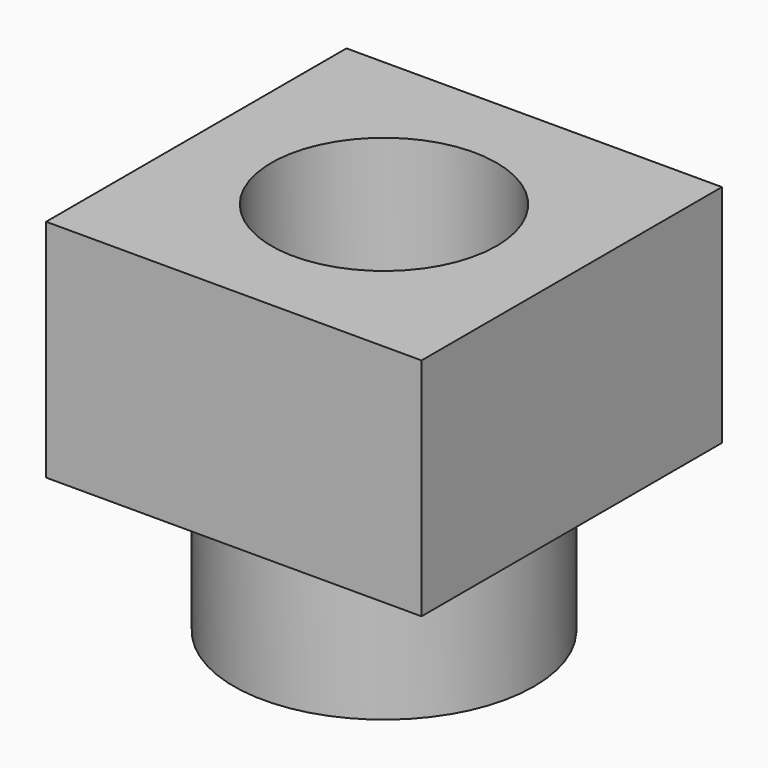
from build123d import *

# Parameters (mm, degrees)
F0_W     = 127
F0_H     = 127
F1_DEPTH = 38.1
F2_R     = 50.8
F3_DEPTH = 50.8
F4_R     = 38.1
F5_DEPTH = 127.001


with BuildPart() as f1:
    # F0 (on Top) → F1 (new body, symmetric)
    with BuildSketch(Plane.XY):
        Rectangle(F0_W, F0_H)
    extrude(amount=F1_DEPTH, both=True)

    # F2 (on face) → F3 (join)
    with BuildSketch(Plane(origin=(0, 0, -38.1), x_dir=(1, 0, 0), z_dir=(0, 0, -1))):
        Circle(F2_R)
    extrude(amount=F3_DEPTH)

    # F4 (on face) → F5 (cut, through all)
    with BuildSketch(Plane(origin=(0, 0, -88.9), x_dir=(1, 0, 0), z_dir=(0, 0, -1))):
        Circle(F4_R)
    extrude(amount=-F5_DEPTH, mode=Mode.SUBTRACT)


solid = f1.part
